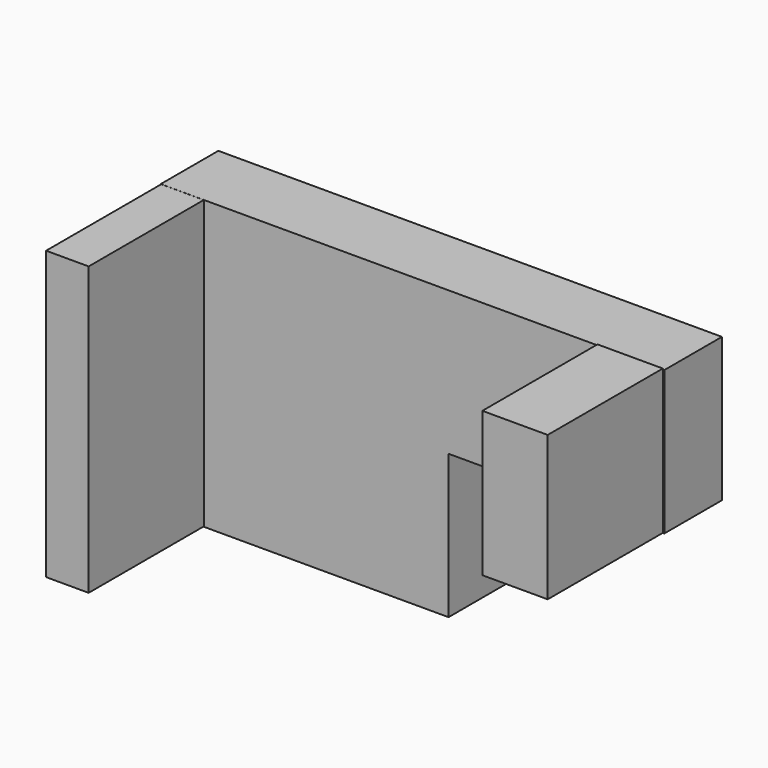
from build123d import *

# Parameters (mm, degrees)
F0_W     = 88.9
F0_H     = 50.8
F1_DEPTH = 12.7
F2_DEPTH = 12.7
F3_W     = 38.1
F3_H     = 25.4
F4_DEPTH = 12.701
F6_W     = 7.515676
F6_H     = 50.730813
F7_DEPTH = 25.4
F8_W     = 11.530545
F8_H     = 25.549939
F9_DEPTH = 25.4


with BuildPart() as f1:
    # F0 (on Front) → F1 (new body)
    with BuildSketch(Plane.XZ):
        Rectangle(F0_W, F0_H)
    extrude(amount=F1_DEPTH)

    # F0 (on Front) → F2 (join)
    with BuildSketch(Plane.XZ):
        Rectangle(F0_W, F0_H)
    extrude(amount=F2_DEPTH)

    # F3 (on face) → F4 (cut, through all)
    with BuildSketch(Plane.XZ.offset(12.7)):
        with Locations((25.4, -12.7)):
            Rectangle(F3_W, F3_H)
    extrude(amount=-F4_DEPTH, mode=Mode.SUBTRACT)

    # F6 (on face) → F7 (join)
    with BuildSketch(Plane.XZ.offset(12.7)):
        with Locations((-40.620357, 0.020526)):
            Rectangle(F6_W, F6_H)
    extrude(amount=F7_DEPTH)

    # F8 (on face) → F9 (join)
    with BuildSketch(Plane.XZ.offset(12.7)):
        with Locations((38.405498, 12.774969)):
            Rectangle(F8_W, F8_H)
    extrude(amount=F9_DEPTH)


solid = f1.part
